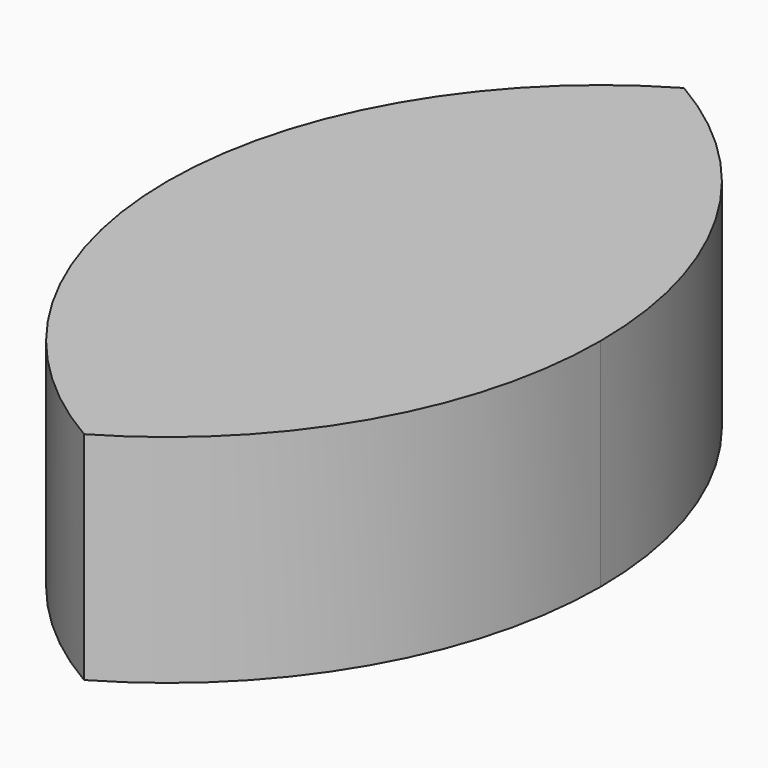
from build123d import *

# Parameters (mm, degrees)
F1_DEPTH = 6.35


with BuildPart() as f1:
    # F0 (on Top) → F1 (new body)
    with BuildSketch(Plane.XY):
        with BuildLine():
            ThreePointArc((0, -10.998523), (4.648523, -6.35), (6.35, 0))
            ThreePointArc((6.35, 0), (4.648523, 6.35), (0, 10.998523))
            ThreePointArc((0, 10.998523), (-6.35, 0), (0, -10.998523))
        make_face()
    extrude(amount=F1_DEPTH)


solid = f1.part
